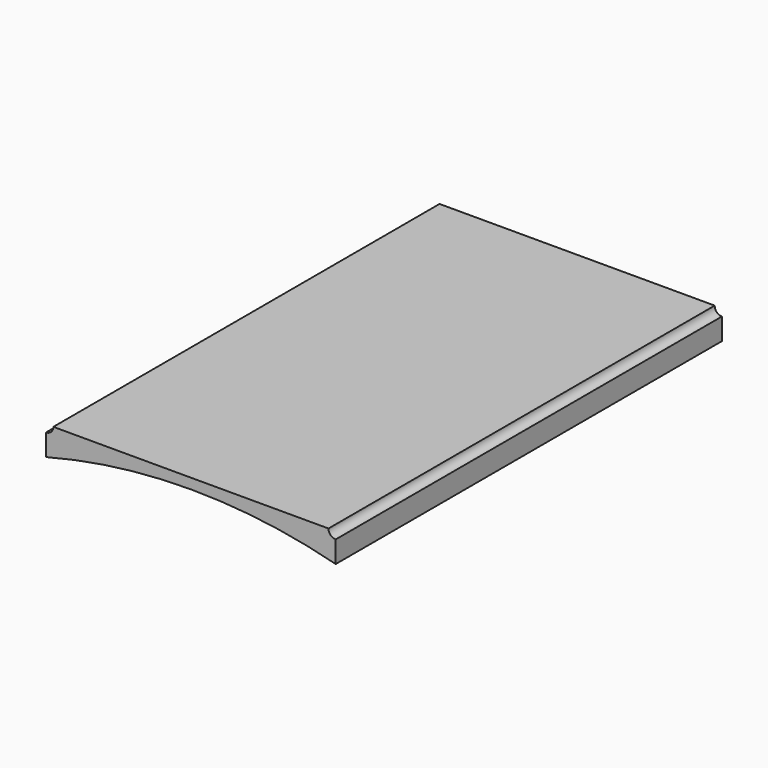
from build123d import *

# Parameters (mm, degrees)
F0_W     = 762
F0_H     = 76.2
F1_DEPTH = 1270
F2_R     = 12.7
F2_R_2   = 38.1
F3_DEPTH = 25.4
F5_DEPTH = 1270.001
F6_R     = 19.05
F7_DEPTH = 1270.001


with BuildPart() as f1:
    # F0 (on Front) → F1 (new body)
    with BuildSketch(Plane.XZ):
        Rectangle(F0_W, F0_H)
    extrude(amount=F1_DEPTH)

    # F2 (on face) → F3 (cut)
    with BuildSketch(Plane(origin=(0, 0, -38.1), x_dir=(1, 0, 0), z_dir=(0, 0, -1))):
        with Locations((0, 1231.9)):
            Circle(F2_R)
        with Locations((0, 38.1)):
            Circle(F2_R)
        with Locations((0, 876.3)):
            Circle(F2_R_2)
        with Locations((0, 393.7)):
            Circle(F2_R_2)
    extrude(amount=-F3_DEPTH, mode=Mode.SUBTRACT)

    # F4 (on face) → F5 (cut, through all)
    with BuildSketch(Plane.XZ.offset(1270)):
        with BuildLine():
            Line((-381, -38.1), (381, -38.1))
            ThreePointArc((381, -38.1), (0, 10.991921), (-381, -38.1))
        make_face()
    extrude(amount=-F5_DEPTH, mode=Mode.SUBTRACT)

    # F6 (on face) → F7 (cut, through all)
    with BuildSketch(Plane(origin=(0, 0, 0), x_dir=(-1, 0, 0), z_dir=(0, 1, 0))):
        with Locations((-381, 38.1)):
            Circle(F6_R)
        with Locations((381, 38.1)):
            Circle(F6_R)
    extrude(amount=-F7_DEPTH, mode=Mode.SUBTRACT)


solid = f1.part
